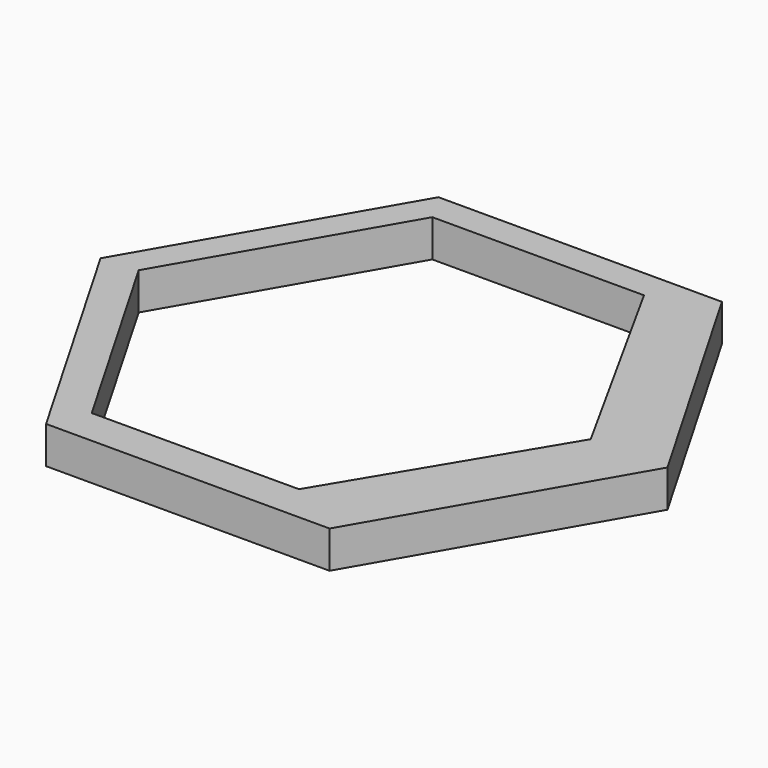
from build123d import *

# Parameters (mm, degrees)
F1_DEPTH = 2


with BuildPart() as f1:
    # F0 (on Top) → F1 (new body)
    with BuildSketch(Plane.XY):
        Polygon((-15.224708, -0.007928), (-7.605488, -13.188947), (7.61922, -13.18102), (15.224708, 0.007928), (7.605488, 13.188947), (-7.61922, 13.18102), align=None)
        Polygon((4.384312, -11.191897), (-6.725698, -11.222334), (-13.29542, 0.143087), (-6.687111, 11.60279), (4.683197, 11.608711), (11.105834, 0), align=None, mode=Mode.SUBTRACT)
        Polygon((-15.224708, -0.007928), (-7.605488, -13.188947), (7.61922, -13.18102), (15.224708, 0.007928), (7.605488, 13.188947), (-7.61922, 13.18102), align=None)
        Polygon((4.384312, -11.191897), (-6.725698, -11.222334), (-13.29542, 0.143087), (-6.687111, 11.60279), (4.683197, 11.608711), (11.105834, 0), align=None, mode=Mode.SUBTRACT)
    extrude(amount=F1_DEPTH)


solid = f1.part
